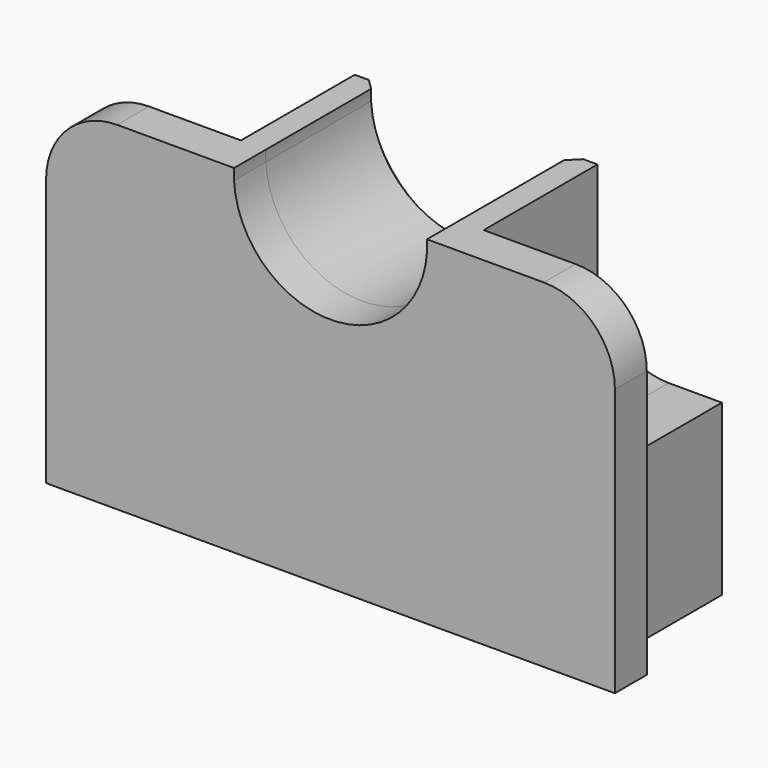
from build123d import *

# Parameters (mm, degrees)
F1_DEPTH = 7.112
F3_DEPTH = 25.4
F4_SIZE  = 1.905
F5_DEPTH = 25.4
F6_SIZE  = 1.905


with BuildPart() as f1:
    # F0 (on Front) → F1 (new body)
    with BuildSketch(Plane.XZ):
        with BuildLine():
            Line((-50.8, -30.2332285792), (50.8, -30.2332285792))
            Line((50.8, -30.2332285792), (50.8, 17.5332285792))
            ThreePointArc((50.8, 17.5332285792), (47.0802561211, 26.5134847002), (38.1, 30.2332285792))
            Line((38.1, 30.2332285792), (-38.1, 30.2332285792))
            ThreePointArc((-38.1, 30.2332285792), (-47.0802561211, 26.5134847002), (-50.8, 17.5332285792))
            Line((-50.8, 17.5332285792), (-50.8, -30.2332285792))
        make_face()
    extrude(amount=F1_DEPTH)

    # F2 (on Front) → F3 (join)
    with BuildSketch(Plane.XZ):
        with BuildLine():
            Line((-43.9048968256, 0), (-43.9048968256, -30.2332285792))
            Line((-43.9048968256, -30.2332285792), (-34.3798968256, -30.2332285792))
            Line((-34.3798968256, -30.2332285792), (-34.3798968256, -16.0933099687))
            Line((-34.3798968256, -16.0933099687), (0, -16.0933099687))
            Line((0, -16.0933099687), (34.3798968256, -16.0933099687))
            Line((34.3798968256, -16.0933099687), (34.3798968256, -30.2332285792))
            Line((34.3798968256, -30.2332285792), (43.9048968256, -30.2332285792))
            Line((43.9048968256, -30.2332285792), (43.9048968256, 0))
            Line((43.9048968256, 0), (34.3798968256, 0))
            ThreePointArc((34.3798968256, 0), (25.3996407045, 3.7197438789), (21.6798968256, 12.7))
            Line((21.6798968256, 12.7), (21.6798968256, 30.2332285792))
            Line((21.6798968256, 30.2332285792), (17.2348968256, 30.2332285792))
            ThreePointArc((17.2348968256, 30.2332285792), (17.2625602078, 29.2563374186), (17.2348968256, 28.2794462581))
            ThreePointArc((17.2348968256, 28.2794462581), (0, 11.9937772108), (-17.2348968256, 28.2794462581))
            ThreePointArc((-17.2348968256, 28.2794462581), (-17.2625602078, 29.2563374186), (-17.2348968256, 30.2332285792))
            Line((-17.2348968256, 30.2332285792), (-21.6798968256, 30.2332285792))
            Line((-21.6798968256, 30.2332285792), (-21.6798968256, 12.7))
            ThreePointArc((-21.6798968256, 12.7), (-25.3996407045, 3.7197438789), (-34.3798968256, 0))
            Line((-34.3798968256, 0), (-43.9048968256, 0))
        make_face()
    extrude(amount=-F3_DEPTH)

    # F4
    f4_edges = [f1.edges().sort_by_distance(p)[0] for p in [
        (34.379897, 25.4, -23.163269),
        (0, 25.4, -16.09331),
        (-34.379897, 25.4, -23.163269),
    ]]
    chamfer(f4_edges, length=F4_SIZE)

    # F5 (cut): a face of the model
    f5_faces = [f1.faces().sort_by_distance(p)[0] for p in [
        (0, 0, 22.4548498087),
    ]]
    extrude(f5_faces, amount=-F5_DEPTH, mode=Mode.SUBTRACT)

    # F6
    f6_edges = [f1.edges().sort_by_distance(p)[0] for p in [
        (0.976891, 25.4, 12.021441),
    ]]
    chamfer(f6_edges, length=F6_SIZE)


solid = f1.part
